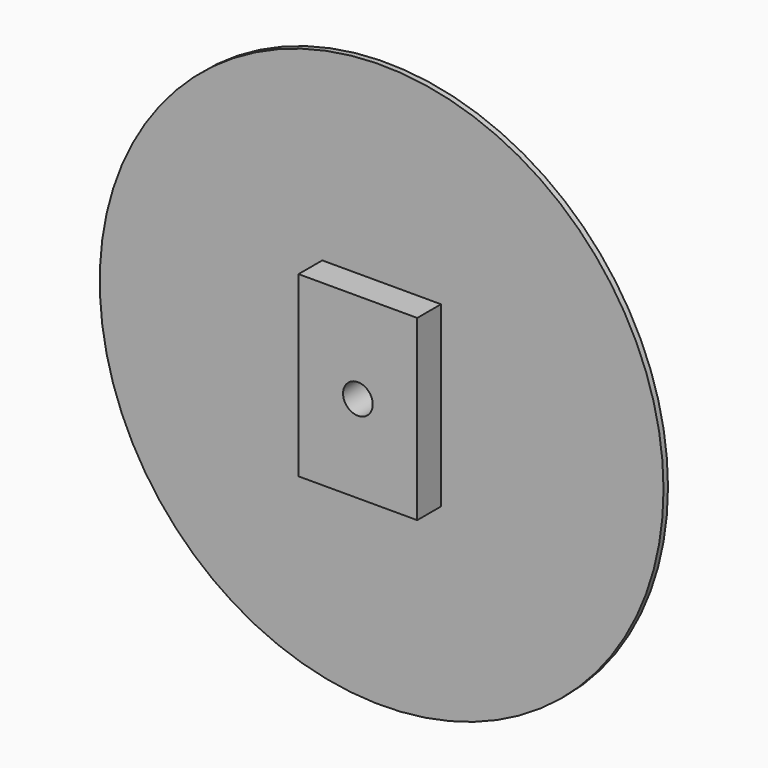
from build123d import *

# Parameters (mm, degrees)
F0_R     = 60.325
F0_R_2   = 7.62
F1_DEPTH = 1.1938
F2_R     = 7.62
F3_DEPTH = 6.35
F4_R     = 3.175
F5_DEPTH = 25.4


with BuildPart() as f1:
    # F0 (on Front) → F1 (new body)
    with BuildSketch(Plane.XZ):
        Circle(F0_R)
        Circle(F0_R_2, mode=Mode.SUBTRACT)
        Circle(F0_R)
        Circle(F0_R_2, mode=Mode.SUBTRACT)
    extrude(amount=F1_DEPTH)

    # F2 (on face) → F3 (join)
    with BuildSketch(Plane.XZ.offset(1.1938)):
        Polygon((12.7, 19.392626), (0, 19.392626), (-12.7, 19.392626), (-12.7, -18.707374), (12.7, -18.707374), align=None)
        Circle(F2_R, mode=Mode.SUBTRACT)
        Circle(F2_R)
    extrude(amount=F3_DEPTH)

    # F4 (on face) → F5 (cut)
    with BuildSketch(Plane.XZ.offset(7.5438)):
        Circle(F4_R)
    extrude(amount=-F5_DEPTH, mode=Mode.SUBTRACT)


solid = f1.part
